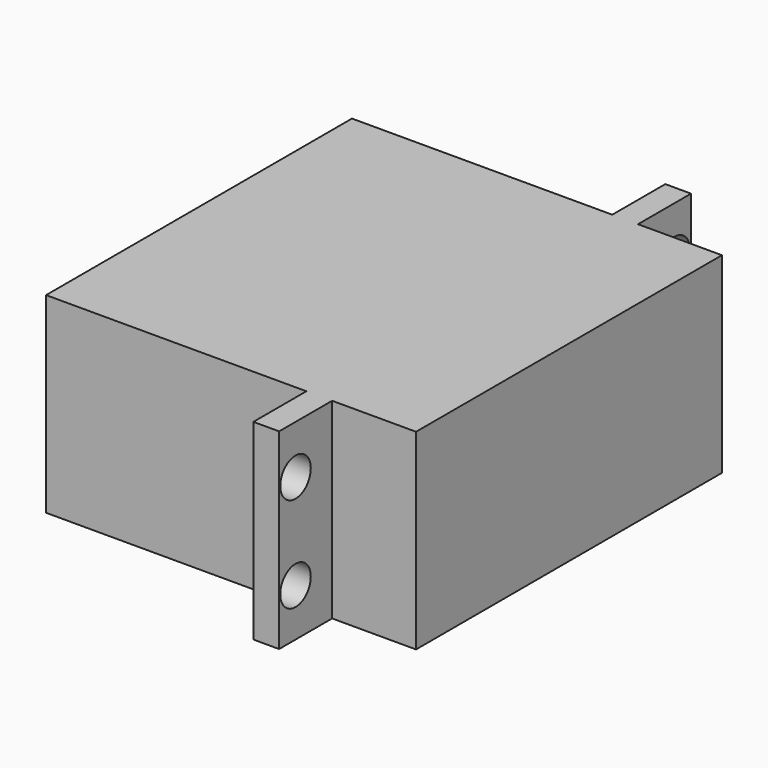
from build123d import *

# Parameters (mm, degrees)
CYLINDER166_R     = 2
CYLINDER166_DEPTH = 20
CYLINDER165_R     = 2
CYLINDER165_DEPTH = 20
CYLINDER163_R     = 2
CYLINDER163_DEPTH = 20
CYLINDER164_R     = 2
CYLINDER164_DEPTH = 20
BOX227_W          = 38.8
BOX227_H          = 40.1
BOX227_DEPTH      = 20.1
BOX076_W          = 2.7
BOX076_H          = 54
BOX076_DEPTH      = 20.1


with BuildPart() as cylinder166:
    # Cylinder166 → Cylinder166 (new body)
    with BuildSketch(Plane(origin=(9.4, 2.2, 5), x_dir=(0, 0, -1), z_dir=(1, 0, 0))):
        Circle(CYLINDER166_R)
    extrude(amount=CYLINDER166_DEPTH)


with BuildPart() as cylinder165:
    # Cylinder165 → Cylinder165 (new body)
    with BuildSketch(Plane(origin=(9.4, 2.2, 15), x_dir=(0, 0, -1), z_dir=(1, 0, 0))):
        Circle(CYLINDER165_R)
    extrude(amount=CYLINDER165_DEPTH)


with BuildPart() as cylinder163:
    # Cylinder163 → Cylinder163 (new body)
    with BuildSketch(Plane(origin=(9.4, 51.9, 5), x_dir=(0, 0, -1), z_dir=(1, 0, 0))):
        Circle(CYLINDER163_R)
    extrude(amount=CYLINDER163_DEPTH)


with BuildPart() as cylinder164:
    # Cylinder164 → Cylinder164 (new body)
    with BuildSketch(Plane(origin=(9.4, 51.9, 15), x_dir=(0, 0, -1), z_dir=(1, 0, 0))):
        Circle(CYLINDER164_R)
    extrude(amount=CYLINDER164_DEPTH)


with BuildPart() as box227:
    # Box227 → Box227 (new body)
    with BuildSketch(Plane(origin=(82, -93, 0), x_dir=(1, 0, 0), z_dir=(0, 0, 1))):
        with Locations((19.4, 20.05)):
            Rectangle(BOX227_W, BOX227_H)
    extrude(amount=BOX227_DEPTH)


with BuildPart() as cut119:
    # Box076 → Box076 (new body)
    with BuildSketch(Plane(origin=(109.3, -99.95, 0), x_dir=(1, 0, 0), z_dir=(0, 0, 1))):
        with Locations((1.35, 27)):
            Rectangle(BOX076_W, BOX076_H)
    extrude(amount=BOX076_DEPTH)

    # Fusion087: union Box227
    add(box227.part)


with BuildPart() as cut119_1:
    # Fusion087 placement: moved
    add(cut119.part.moved(Location((-82.6, 100, 0))))

    # Cut116: cut Cylinder164
    add(cylinder164.part, mode=Mode.SUBTRACT)

    # Cut117: cut Cylinder163
    add(cylinder163.part, mode=Mode.SUBTRACT)

    # Cut118: cut Cylinder165
    add(cylinder165.part, mode=Mode.SUBTRACT)

    # Cut119: cut Cylinder166
    add(cylinder166.part, mode=Mode.SUBTRACT)


with BuildPart() as cut119_2:
    # Cut119 placement: moved
    add(cut119_1.part.moved(Location((-4, -10, 0))))


solid = cut119_2.part
